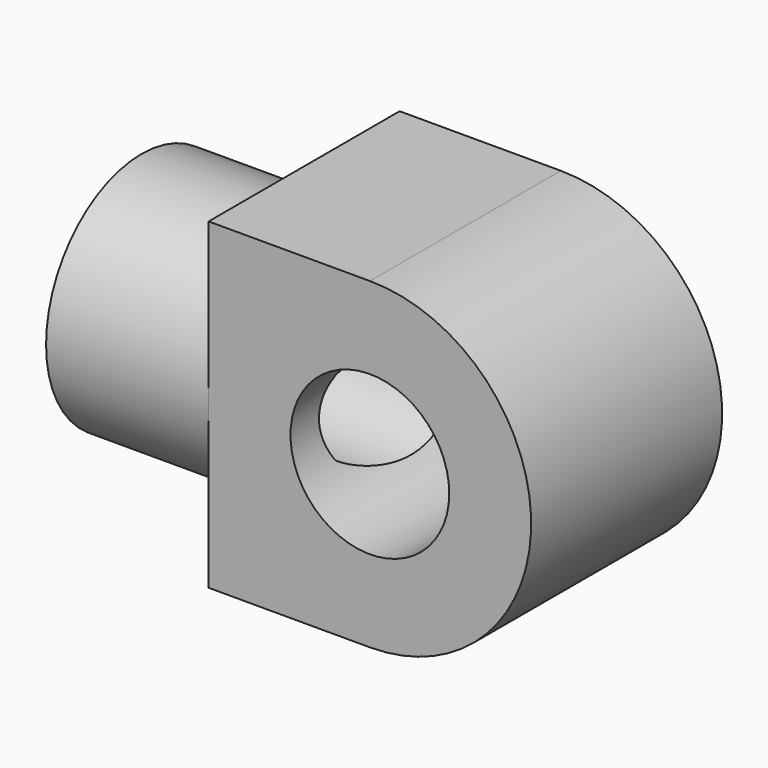
from build123d import *

# Parameters (mm, degrees)
F0_R     = 1.5625
F1_DEPTH = 2.35
F3_DEPTH = 3.2
F5_D     = 3.3
F5_DEPTH = 5
F5_TIP   = 0.9914200214


with BuildPart() as f1:
    # F0 (on Front) → F1 (new body, symmetric)
    with BuildSketch(Plane.XZ):
        with BuildLine():
            Line((0, 3.175), (-3.175, 3.175))
            Line((-3.175, 3.175), (-3.175, -3.175))
            Line((-3.175, -3.175), (0, -3.175))
            ThreePointArc((0, -3.175), (3.175, 0), (0, 3.175))
        make_face()
        Circle(F0_R, mode=Mode.SUBTRACT)
    extrude(amount=F1_DEPTH, both=True)

    # F2 (on face) → F3 (join)
    with BuildSketch(Plane(origin=(-3.175, 0, 0), x_dir=(0, -1, 0), z_dir=(-1, 0, 0))):
        with BuildLine():
            ThreePointArc((-2.35, 0), (0, -2.35), (2.35, 0))
            ThreePointArc((2.35, 0), (0, 2.35), (-2.35, 0))
        make_face()
    extrude(amount=F3_DEPTH)

    # F5
    with Locations(Plane(origin=(-6.375, 0, 0), x_dir=(0, -1, 0), z_dir=(-1, 0, 0))):
        with Locations((0, 0)):
            Hole(F5_D / 2, depth=F5_DEPTH)
            with Locations((0, 0, -(F5_DEPTH + F5_TIP / 2))):  # 118° drill point
                Cone(0, F5_D / 2, F5_TIP, mode=Mode.SUBTRACT)


solid = f1.part
